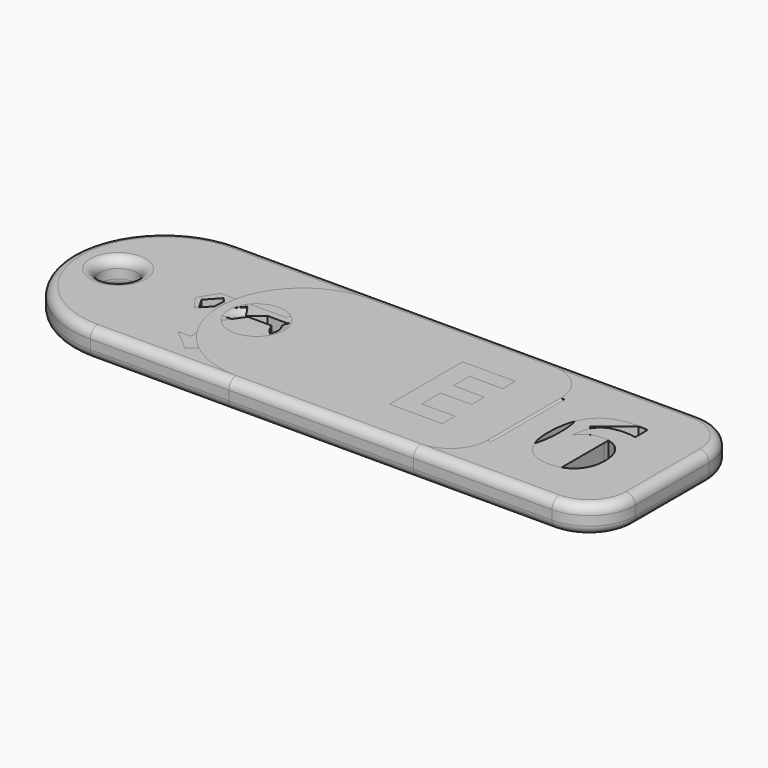
from build123d import *

# Parameters (mm, degrees)
F0_R     = 2
F1_DEPTH = 3
F2_R     = 1
F3_R     = 2
F4_DEPTH = 3
F5_R     = 1
F6_R     = 2
F7_DEPTH = 3
F8_R     = 1


with BuildPart() as f1:
    # F0 (on Top) → F1 (new body)
    with BuildSketch(Plane.XY):
        with BuildLine():
            ThreePointArc((32.5, 5), (31.0355339059, 8.5355339059), (27.5, 10))
            Line((27.5, 10), (-22.5, 10))
            ThreePointArc((-22.5, 10), (-29.5710678119, 7.0710678119), (-32.5, 0))
            ThreePointArc((-32.5, 0), (-29.5710678119, -7.0710678119), (-22.5, -10))
            Line((-22.5, -10), (27.5, -10))
            ThreePointArc((27.5, -10), (31.0355339059, -8.5355339059), (32.5, -5))
            Line((32.5, -5), (32.5, 5))
        make_face()
        Polygon((-13.4860947728, -3.1728382669), (-12.7450618893, -3.1728382669), (-12.0040290058, -3.1728382669), (-12.0040290058, -5.6939983256), (-11.0728256404, -5.6939983256), (-12.7450618893, -7.2268821746), (-14.4172981381, -5.6939983256), (-13.4860947728, -5.6939983256), align=None, mode=Mode.SUBTRACT)
        with Locations((-27.5, 0)):
            Circle(F0_R, mode=Mode.SUBTRACT)
        with BuildLine():
            Line((-17.7832432091, -1.1728382669), (-18.4608325362, 0))
            Line((-18.4608325362, 0), (-17.1973351389, 1.3817190193))
            Line((-17.1973351389, 1.3817190193), (-15.8145930618, 0))
            Line((-15.8145930618, 0), (-14.642778784, 1.4754642034))
            Line((-14.642778784, 1.4754642034), (-13.6584537104, 0))
            Line((-13.6584537104, 0), (-12.2731286172, 1.1728382669))
            Line((-12.2731286172, 1.1728382669), (-10.0726988167, 1.1728382669))
            ThreePointArc((-10.0726988167, 1.1728382669), (-4.4831302397, 0), (-10.0726988167, -1.1728382669))
            Line((-10.0726988167, -1.1728382669), (-17.7832432091, -1.1728382669))
        make_face(mode=Mode.SUBTRACT)
        Polygon((-12.0040290058, 3.1728382669), (-12.7450618893, 3.1728382669), (-13.4860947728, 3.1728382669), (-13.4860947728, 5.6939983256), (-14.4172981381, 5.6939983256), (-12.7450618893, 7.2268821746), (-11.0728256404, 5.6939983256), (-12.0040290058, 5.6939983256), align=None, mode=Mode.SUBTRACT)
        with BuildLine():
            add(Edge.make_bspline(
                [(19.4889322917, 3.834969122), (20.3667534722, 2.5328857886), (20.3667534722, 0.0220350942)],
                knots=[0, 0, 0, 1, 1, 1], degree=2))
            add(Edge.make_bspline(
                [(20.3667534722, 0.0220350942), (20.3667534722, -2.5734510169), (19.5160590278, -3.8223659475)],
                knots=[0, 0, 0, 1, 1, 1], degree=2))
            add(Edge.make_bspline(
                [(19.5160590278, -3.8223659475), (18.6653645833, -5.071280878), (16.89453125, -5.071280878)],
                knots=[0, 0, 0, 1, 1, 1], degree=2))
            add(Edge.make_bspline(
                [(16.89453125, -5.071280878), (15.1779513889, -5.071280878), (14.306640625, -3.782218378)],
                knots=[0, 0, 0, 1, 1, 1], degree=2))
            add(Edge.make_bspline(
                [(14.306640625, -3.782218378), (13.4353298611, -2.493155878), (13.4353298611, 0.0220350942)],
                knots=[0, 0, 0, 1, 1, 1], degree=2))
            add(Edge.make_bspline(
                [(13.4353298611, 0.0220350942), (13.4353298611, 2.6479031497), (14.2838541667, 3.8924778025)],
                knots=[0, 0, 0, 1, 1, 1], degree=2))
            add(Edge.make_bspline(
                [(14.2838541667, 3.8924778025), (15.1323784722, 5.1370524553), (16.89453125, 5.1370524553)],
                knots=[0, 0, 0, 1, 1, 1], degree=2))
            add(Edge.make_bspline(
                [(16.89453125, 5.1370524553), (18.6111111111, 5.1370524553), (19.4889322917, 3.834969122)],
                knots=[0, 0, 0, 1, 1, 1], degree=2))
        make_face(mode=Mode.SUBTRACT)
        with BuildLine():
            Line((26.5993923611, 4.9808024553), (26.5993923611, -4.934562128))
            Line((26.5993923611, -4.934562128), (24.5030381944, -4.934562128))
            Line((24.5030381944, -4.934562128), (24.5030381944, 0.8032850942))
            Line((24.5030381944, 0.8032850942), (24.5247395833, 1.745125372))
            Line((24.5247395833, 1.745125372), (24.5572916667, 2.7759413442))
            add(Edge.make_bspline(
                [(24.5572916667, 2.7759413442), (24.0364583333, 2.2551080109), (23.8324652778, 2.0923475942)],
                knots=[0, 0, 0, 1, 1, 1], degree=2))
            Line((23.8324652778, 2.0923475942), (22.6931423611, 1.1765489831))
            Line((22.6931423611, 1.1765489831), (21.6818576389, 2.4373996775))
            Line((21.6818576389, 2.4373996775), (24.8763020833, 4.9808024553))
            Line((24.8763020833, 4.9808024553), (26.5993923611, 4.9808024553))
        make_face(mode=Mode.SUBTRACT)
        Polygon((-12.0040290058, -3.1728382669), (-12.7450618893, -3.1728382669), (-13.4860947728, -3.1728382669), (-13.4860947728, -5.6939983256), (-14.4172981381, -5.6939983256), (-12.7450618893, -7.2268821746), (-11.0728256404, -5.6939983256), (-12.0040290058, -5.6939983256), align=None)
    extrude(amount=F1_DEPTH)

    # F2
    f2_edges = [f1.edges().sort_by_distance(p)[0] for p in [
        (2.5, -10, 3),
        (2.5, -10, 0),
        (-29.5, 0, 3),
        (-29.5, 0, 0),
    ]]
    fillet(f2_edges, radius=F2_R)


with BuildPart() as f4:
    # F3 (on Top) → F4 (new body)
    with BuildSketch(Plane.XY):
        with BuildLine():
            ThreePointArc((32.5, 5), (31.0355339059, 8.5355339059), (27.5, 10))
            Line((27.5, 10), (-22.5, 10))
            ThreePointArc((-22.5, 10), (-29.5710678119, 7.0710678119), (-32.5, 0))
            ThreePointArc((-32.5, 0), (-29.5710678119, -7.0710678119), (-22.5, -10))
            Line((-22.5, -10), (27.5, -10))
            ThreePointArc((27.5, -10), (31.0355339059, -8.5355339059), (32.5, -5))
            Line((32.5, -5), (32.5, 5))
        make_face()
        Polygon((-14.9792153388, -5.775249701), (-14.9792153388, -3.8968093209), (-14.0399942175, -3.8968093209), (-13.1007730961, -3.8968093209), (-13.1007730961, -5.775249701), (-11.728066951, -5.775249701), (-14.0399942175, -7.7981852442), (-16.3519214839, -5.775249701), align=None, mode=Mode.SUBTRACT)
        with BuildLine():
            Line((16.9227430556, 4.9153645833), (16.9227430556, -5))
            Line((16.9227430556, -5), (14.8263888889, -5))
            Line((14.8263888889, -5), (14.8263888889, 0.7378472222))
            Line((14.8263888889, 0.7378472222), (14.8480902778, 1.6796875))
            Line((14.8480902778, 1.6796875), (14.8806423611, 2.7105034722))
            add(Edge.make_bspline(
                [(14.8806423611, 2.7105034722), (14.3598090278, 2.1896701389), (14.1558159722, 2.0269097222)],
                knots=[0, 0, 0, 1, 1, 1], degree=2))
            Line((14.1558159722, 2.0269097222), (13.0164930556, 1.1111111111))
            Line((13.0164930556, 1.1111111111), (12.0052083333, 2.3719618056))
            Line((12.0052083333, 2.3719618056), (15.1996527778, 4.9153645833))
            Line((15.1996527778, 4.9153645833), (16.9227430556, 4.9153645833))
        make_face(mode=Mode.SUBTRACT)
        with BuildLine():
            add(Edge.make_bspline(
                [(20.0444878472, -3.1423611111), (19.6006944444, -2.1657986111), (19.6006944444, -0.7877604167)],
                knots=[0, 0, 0, 1, 1, 1], degree=2))
            add(Edge.make_bspline(
                [(19.6006944444, -0.7877604167), (19.6006944444, 2.1549479167), (20.8452690972, 3.5926649306)],
                knots=[0, 0, 0, 1, 1, 1], degree=2))
            add(Edge.make_bspline(
                [(20.8452690972, 3.5926649306), (22.08984375, 5.0303819444), (24.5724826389, 5.0303819444)],
                knots=[0, 0, 0, 1, 1, 1], degree=2))
            add(Edge.make_bspline(
                [(24.5724826389, 5.0303819444), (25.4188368056, 5.0303819444), (25.9006076389, 4.9283854167)],
                knots=[0, 0, 0, 1, 1, 1], degree=2))
            Line((25.9006076389, 4.9283854167), (25.9006076389, 3.2530381944))
            add(Edge.make_bspline(
                [(25.9006076389, 3.2530381944), (25.2973090278, 3.3897569444), (24.70703125, 3.3897569444)],
                knots=[0, 0, 0, 1, 1, 1], degree=2))
            add(Edge.make_bspline(
                [(24.70703125, 3.3897569444), (23.6284722222, 3.3897569444), (22.9470486111, 3.0642361111)],
                knots=[0, 0, 0, 1, 1, 1], degree=2))
            add(Edge.make_bspline(
                [(22.9470486111, 3.0642361111), (22.265625, 2.7387152778), (21.9270833333, 2.1006944444)],
                knots=[0, 0, 0, 1, 1, 1], degree=2))
            add(Edge.make_bspline(
                [(21.9270833333, 2.1006944444), (21.5885416667, 1.4626736111), (21.5277777778, 0.2907986111)],
                knots=[0, 0, 0, 1, 1, 1], degree=2))
            Line((21.5277777778, 0.2907986111), (21.6145833333, 0.2907986111))
            add(Edge.make_bspline(
                [(21.6145833333, 0.2907986111), (22.2873263889, 1.4431423611), (23.7651909722, 1.4431423611)],
                knots=[0, 0, 0, 1, 1, 1], degree=2))
            add(Edge.make_bspline(
                [(23.7651909722, 1.4431423611), (25.0933159722, 1.4431423611), (25.8463541667, 0.6087239583)],
                knots=[0, 0, 0, 1, 1, 1], degree=2))
            add(Edge.make_bspline(
                [(25.8463541667, 0.6087239583), (26.5993923611, -0.2256944444), (26.5993923611, -1.6970486111)],
                knots=[0, 0, 0, 1, 1, 1], degree=2))
            add(Edge.make_bspline(
                [(26.5993923611, -1.6970486111), (26.5993923611, -3.2834201389), (25.7042100694, -4.2100694444)],
                knots=[0, 0, 0, 1, 1, 1], degree=2))
            add(Edge.make_bspline(
                [(25.7042100694, -4.2100694444), (24.8090277778, -5.13671875), (23.22265625, -5.13671875)],
                knots=[0, 0, 0, 1, 1, 1], degree=2))
            add(Edge.make_bspline(
                [(23.22265625, -5.13671875), (22.1245659722, -5.13671875), (21.3064236111, -4.6278211806)],
                knots=[0, 0, 0, 1, 1, 1], degree=2))
            add(Edge.make_bspline(
                [(21.3064236111, -4.6278211806), (20.48828125, -4.1189236111), (20.0444878472, -3.1423611111)],
                knots=[0, 0, 0, 1, 1, 1], degree=2))
        make_face(mode=Mode.SUBTRACT)
        with Locations((-27.5, 0)):
            Circle(F3_R, mode=Mode.SUBTRACT)
        with BuildLine():
            Line((-18.0409811437, -1.5101806493), (-19.1405359656, 0))
            Line((-19.1405359656, 0), (-17.9121065885, 1.9265188603))
            Line((-17.9121065885, 1.9265188603), (-10.8668711036, 1.9265188603))
            ThreePointArc((-10.8668711036, 1.9265188603), (-4.9094816643, 0.9632594301), (-10.8668711036, 0))
            Line((-10.8668711036, 0), (-13.4443966672, 0))
            Line((-13.4443966672, 0), (-14.7761171684, -1.8968093209))
            Line((-14.7761171684, -1.8968093209), (-16.5803842247, 0))
            Line((-16.5803842247, 0), (-18.0409811437, -1.5101806493))
        make_face(mode=Mode.SUBTRACT)
    extrude(amount=F4_DEPTH)

    # F5
    f5_edges = [f4.edges().sort_by_distance(p)[0] for p in [
        (2.5, -10, 3),
        (2.5, -10, 0),
        (-29.5, 0, 3),
        (-29.5, 0, 0),
    ]]
    fillet(f5_edges, radius=F5_R)


with BuildPart() as f7:
    # F6 (on Top) → F7 (new body)
    with BuildSketch(Plane.XY):
        with BuildLine():
            ThreePointArc((17.5, 5), (16.0355339059, 8.5355339059), (12.5, 10))
            Line((12.5, 10), (-7.5, 10))
            ThreePointArc((-7.5, 10), (-14.5710678119, 7.0710678119), (-17.5, 0))
            ThreePointArc((-17.5, 0), (-14.5710678119, -7.0710678119), (-7.5, -10))
            Line((-7.5, -10), (12.5, -10))
            ThreePointArc((12.5, -10), (16.0355339059, -8.5355339059), (17.5, -5))
            Line((17.5, -5), (17.5, 5))
        make_face()
        Polygon((11.5993923611, -3.2638888889), (11.5993923611, -5), (5.8897569444, -5), (5.8897569444, 4.9153645833), (11.5993923611, 4.9153645833), (11.5993923611, 3.1922743056), (7.9926215278, 3.1922743056), (7.9926215278, 1.015625), (11.3498263889, 1.015625), (11.3498263889, -0.7074652778), (7.9926215278, -0.7074652778), (7.9926215278, -3.2638888889), align=None, mode=Mode.SUBTRACT)
        with Locations((-12.5, 0)):
            Circle(F6_R, mode=Mode.SUBTRACT)
    extrude(amount=F7_DEPTH)

    # F8
    f8_edges = [f7.edges().sort_by_distance(p)[0] for p in [
        (2.5, -10, 3),
        (2.5, -10, 0),
        (-14.5, 0, 3),
        (-10.5, 0, 1.5),
        (-14.5, 0, 0),
    ]]
    fillet(f8_edges, radius=F8_R)


solid = Compound([f1.part, f4.part, f7.part])
